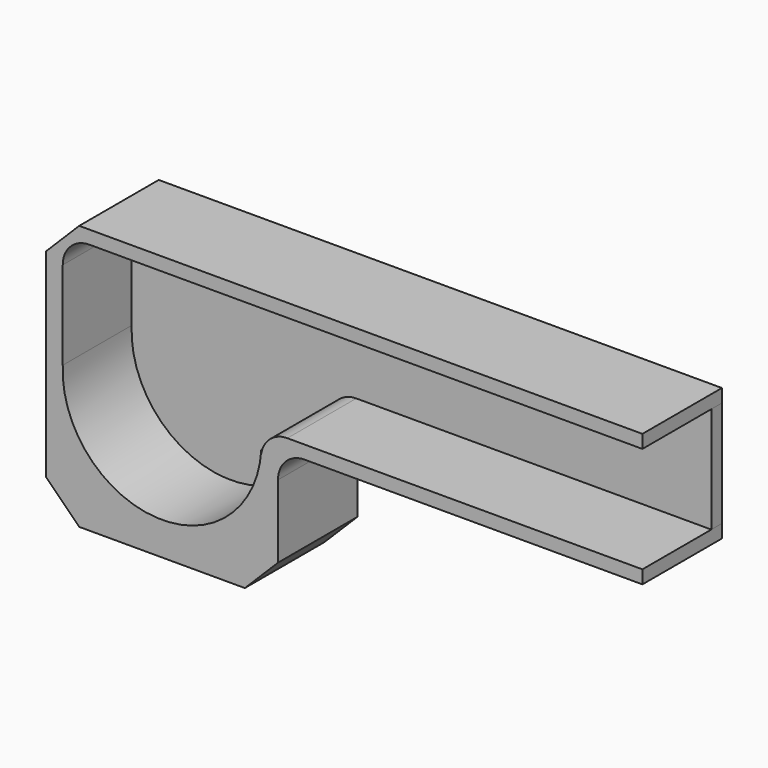
from build123d import *

# Parameters (mm, degrees)
F1_DEPTH = 15
F3_DEPTH = 2
F4_SIZE  = 5
F5_R     = 4


with BuildPart() as f1:
    # F0 (on Front) → F1 (new body)
    with BuildSketch(Plane.XZ):
        with BuildLine():
            Line((-50.949716, 40), (-50.949716, 0))
            Line((-50.949716, 0), (-15.949716, 0))
            Line((-15.949716, 0), (-15.949716, 20))
            Line((-15.949716, 20), (39.050284, 20))
            Line((39.050284, 20), (39.050284, 22))
            Line((39.050284, 22), (-14.53422, 22))
            ThreePointArc((-14.53422, 22), (-17.278835, 20.909826), (-18.527396, 18.233544))
            Line((-18.527396, 18.233544), (-18.475305, 19.124211))
            ThreePointArc((-18.475305, 19.124211), (-34.223126, 5.019952), (-48.434701, 20.670995))
            Line((-48.434701, 20.670995), (-48.434701, 34))
            ThreePointArc((-48.434701, 34), (-47.263128, 36.828427), (-44.434701, 38))
            Line((-44.434701, 38), (39.050284, 38))
            Line((39.050284, 38), (39.050284, 40))
            Line((39.050284, 40), (-50.949716, 40))
        make_face()
    extrude(amount=F1_DEPTH)

    # F4
    f4_edges = [f1.edges().sort_by_distance(p)[0] for p in [
        (-50.949716, -7.5, 0),
        (-15.949716, -7.5, 0),
        (-50.949716, -7.5, 40),
    ]]
    chamfer(f4_edges, length=F4_SIZE)

    # F5
    f5_edges = [f1.edges().sort_by_distance(p)[0] for p in [
        (-15.949716, -7.5, 20),
    ]]
    fillet(f5_edges, radius=F5_R)


with BuildPart() as f3:
    # F2 (on face) → F3 (new body)
    with BuildSketch(Plane(origin=(0, 0, 0), x_dir=(-1, 0, 0), z_dir=(0, 1, 0))):
        with BuildLine():
            Line((-39.050284, 38), (-39.050284, 22))
            Line((-39.050284, 22), (14.53422, 22))
            ThreePointArc((14.53422, 22), (17.278835, 20.909826), (18.527396, 18.233544))
            Line((18.527396, 18.233544), (18.475305, 19.124211))
            ThreePointArc((18.475305, 19.124211), (34.223126, 5.019952), (48.434701, 20.670995))
            Line((48.434701, 20.670995), (48.434701, 34))
            ThreePointArc((48.434701, 34), (47.263128, 36.828427), (44.434701, 38))
            Line((44.434701, 38), (-39.050284, 38))
        make_face()
    extrude(amount=-F3_DEPTH)


solid = Compound([f1.part, f3.part])
